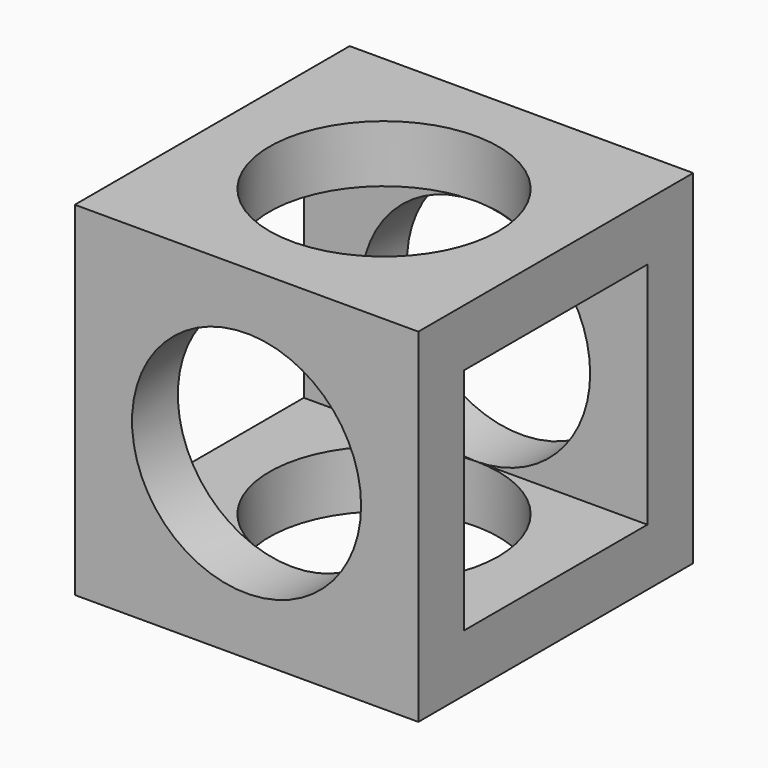
from build123d import *

# Parameters (mm, degrees)
F0_W     = 30
F0_H     = 30
F1_DEPTH = 30
F2_R     = 10
F3_DEPTH = 30.001
F4_R     = 10
F5_DEPTH = 30.001
F6_W     = 20
F6_H     = 20
F7_DEPTH = 30.001


with BuildPart() as f1:
    # F0 (on Front) → F1 (new body)
    with BuildSketch(Plane.XZ):
        Rectangle(F0_W, F0_H)
    extrude(amount=F1_DEPTH)

    # F2 (on face) → F3 (cut, through all)
    with BuildSketch(Plane.XZ.offset(30)):
        Circle(F2_R)
    extrude(amount=-F3_DEPTH, mode=Mode.SUBTRACT)

    # F4 (on face) → F5 (cut, through all)
    with BuildSketch(Plane.XY.offset(15)):
        with Locations((0, -15)):
            Circle(F4_R)
    extrude(amount=-F5_DEPTH, mode=Mode.SUBTRACT)

    # F6 (on face) → F7 (cut, through all)
    with BuildSketch(Plane.YZ.offset(15)):
        with Locations((-15, 0)):
            Rectangle(F6_W, F6_H)
    extrude(amount=-F7_DEPTH, mode=Mode.SUBTRACT)


solid = f1.part
